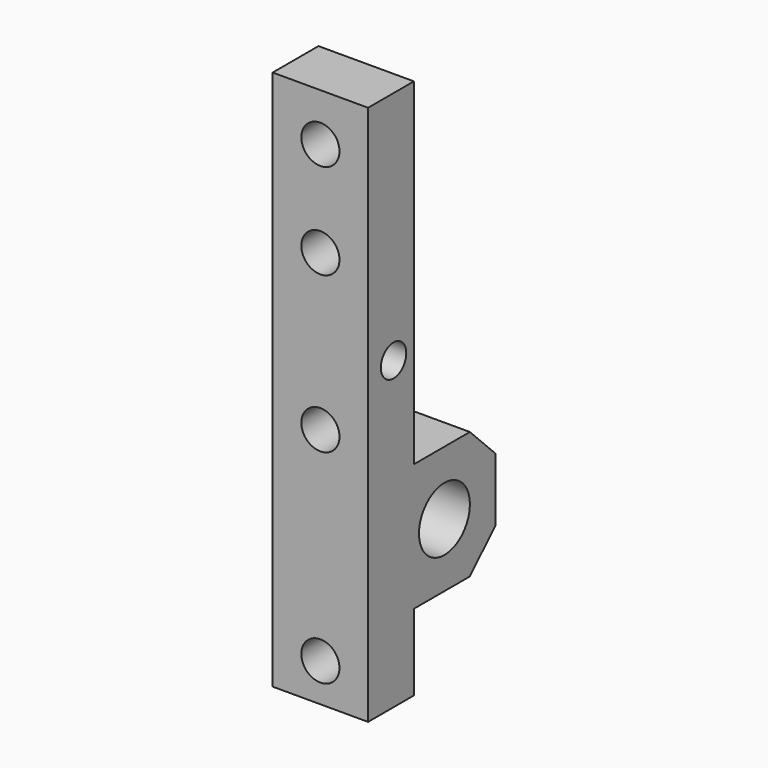
from build123d import *

# Parameters (mm, degrees)
F0_R     = 5
F0_R_2   = 2.5
F1_DEPTH = 15
F2_SIZE  = 5
F3_R     = 3
F4_DEPTH = 9


with BuildPart() as f1:
    # F0 (on Right) → F1 (new body)
    with BuildSketch(Plane.YZ):
        Polygon((0, 85), (0, 0), (9, 0), (9, 12), (25, 12), (25, 32), (9, 32), (9, 85), align=None)
        with Locations((15, 22)):
            Circle(F0_R, mode=Mode.SUBTRACT)
        with Locations((5, 48)):
            Circle(F0_R_2, mode=Mode.SUBTRACT)
    extrude(amount=F1_DEPTH)

    # F2
    f2_edges = [f1.edges().sort_by_distance(p)[0] for p in [
        (7.5, 25, 32),
        (7.5, 25, 12),
    ]]
    chamfer(f2_edges, length=F2_SIZE)

    # F3 (on face) → F4 (cut, through all)
    with BuildSketch(Plane(origin=(0, 9, 0), x_dir=(-1, 0, 0), z_dir=(0, 1, 0))):
        with Locations((-7.5, 77.5)):
            Circle(F3_R)
        with Locations((-7.5, 62.5)):
            Circle(F3_R)
        with Locations((-7.5, 6)):
            Circle(F3_R)
        with Locations((-7.5, 38)):
            Circle(F3_R)
    extrude(amount=-F4_DEPTH, mode=Mode.SUBTRACT)


solid = f1.part
